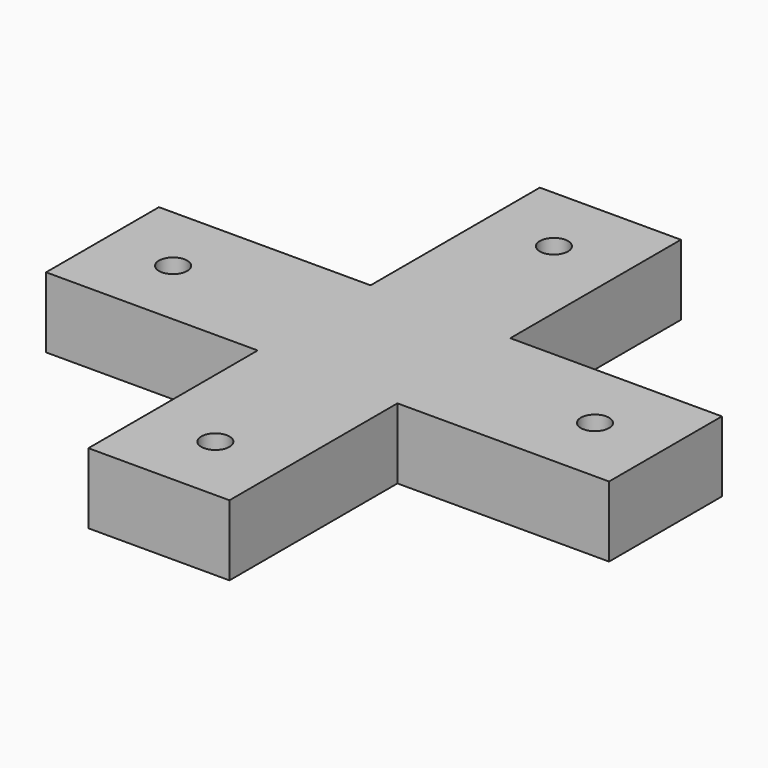
from build123d import *

# Parameters (mm, degrees)
SKETCH_R  = 2
PAD_DEPTH = 10


with BuildPart() as part:
    # Sketch → Pad (new body)
    with BuildSketch(Plane.XY):
        Polygon((-20, 40), (-20, 10), (-50, 10), (-50, -10), (-20, -10), (-20, -40), (0, -40), (0, -10.232319), (30, -10.232319), (30, 9.767681), (0, 9.767681), (0, 40), align=None)
        with Locations((-10, 30)):
            Circle(SKETCH_R, mode=Mode.SUBTRACT)
        with Locations((-40, 0)):
            Circle(SKETCH_R, mode=Mode.SUBTRACT)
        with Locations((-10, -30)):
            Circle(SKETCH_R, mode=Mode.SUBTRACT)
        with Locations((20, -0.232319)):
            Circle(SKETCH_R, mode=Mode.SUBTRACT)
    extrude(amount=PAD_DEPTH)


solid = part.part
